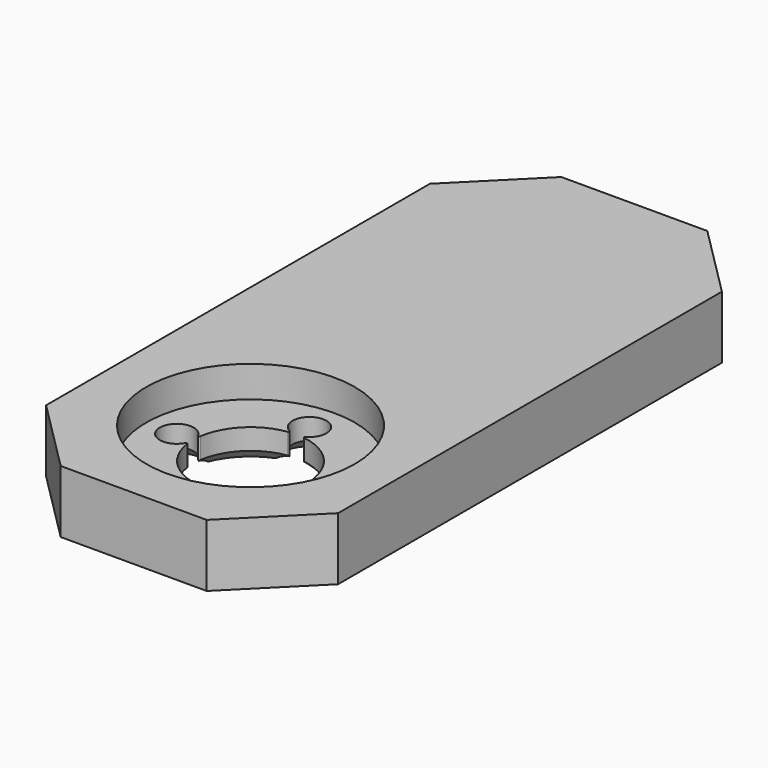
from build123d import *

# Parameters (mm, degrees)
F0_W     = 28
F0_H     = 60
F1_DEPTH = 6
F2_R     = 10
F3_DEPTH = 3
F5_DEPTH = 3.001
F6_SIZE  = 1
F7_SIZE  = 7
F8_R     = 0.1


with BuildPart() as f1:
    # F0 (on Top) → F1 (new body)
    with BuildSketch(Plane.XY):
        with Locations((0, 16)):
            Rectangle(F0_W, F0_H)
    extrude(amount=F1_DEPTH)

    # F2 (on face) → F3 (cut)
    with BuildSketch(Plane.XY.offset(6)):
        Circle(F2_R)
    extrude(amount=-F3_DEPTH, mode=Mode.SUBTRACT)

    # F4 (on face) → F5 (cut, through all)
    with BuildSketch(Plane.XY.offset(3)):
        with BuildLine():
            ThreePointArc((5.4878115346, -0.3659570474), (5.4969520391, -0.183079982), (5.5, 0))
            ThreePointArc((5.5, 0), (5.4969520391, 0.183079982), (5.4878115346, 0.3659570474))
            ThreePointArc((5.4878115346, 0.3659570474), (5.4460678119, 0), (5.4878115346, -0.3659570474))
        make_face()
        with BuildLine():
            ThreePointArc((5.4878115346, 0.3659570474), (5.4969520391, 0.183079982), (5.5, 0))
            ThreePointArc((5.5, 0), (5.4969520391, -0.183079982), (5.4878115346, -0.3659570474))
            ThreePointArc((5.4878115346, -0.3659570474), (7.2552328866, -1.614530342), (8.6960678119, 0))
            ThreePointArc((8.6960678119, 0), (7.2552328866, 1.614530342), (5.4878115346, 0.3659570474))
        make_face()
        with BuildLine():
            ThreePointArc((5.4878115346, -0.3659570474), (5.4460678119, 0), (5.4878115346, 0.3659570474))
            ThreePointArc((5.4878115346, 0.3659570474), (3.8890872965, 3.8890872965), (0.3659570474, 5.4878115346))
            ThreePointArc((0.3659570474, 5.4878115346), (0, 5.4460678119), (-0.3659570474, 5.4878115346))
            ThreePointArc((-0.3659570474, 5.4878115346), (-3.8890872965, 3.8890872965), (-5.4878115346, 0.3659570474))
            ThreePointArc((-5.4878115346, 0.3659570474), (-5.4565374699, 0.1841650747), (-5.4460678119, 0))
            ThreePointArc((-5.4460678119, 0), (-5.4565374699, -0.1841650747), (-5.4878115346, -0.3659570474))
            ThreePointArc((-5.4878115346, -0.3659570474), (-3.8890872965, -3.8890872965), (-0.3659570474, -5.4878115346))
            ThreePointArc((-0.3659570474, -5.4878115346), (0, -5.4460678119), (0.3659570474, -5.4878115346))
            ThreePointArc((0.3659570474, -5.4878115346), (3.8890872965, -3.8890872965), (5.4878115346, -0.3659570474))
        make_face()
        with BuildLine():
            ThreePointArc((-0.3659570474, 5.4878115346), (0, 5.4460678119), (0.3659570474, 5.4878115346))
            ThreePointArc((0.3659570474, 5.4878115346), (0, 5.5), (-0.3659570474, 5.4878115346))
        make_face()
        with BuildLine():
            ThreePointArc((-0.3659570474, 5.4878115346), (0, 5.5), (0.3659570474, 5.4878115346))
            ThreePointArc((0.3659570474, 5.4878115346), (1.2718697264, 6.0596468318), (1.625, 7.0710678119))
            ThreePointArc((1.625, 7.0710678119), (-1.0114209801, 8.3429375383), (-0.3659570474, 5.4878115346))
        make_face()
        with BuildLine():
            ThreePointArc((1.625, -7.0710678119), (1.2718697264, -6.0596468318), (0.3659570474, -5.4878115346))
            ThreePointArc((0.3659570474, -5.4878115346), (0, -5.5), (-0.3659570474, -5.4878115346))
            ThreePointArc((-0.3659570474, -5.4878115346), (-1.0114209801, -8.3429375383), (1.625, -7.0710678119))
        make_face()
        with BuildLine():
            ThreePointArc((-0.3659570474, -5.4878115346), (0, -5.5), (0.3659570474, -5.4878115346))
            ThreePointArc((0.3659570474, -5.4878115346), (0, -5.4460678119), (-0.3659570474, -5.4878115346))
        make_face()
        with BuildLine():
            ThreePointArc((-5.4460678119, 0), (-5.4565374699, 0.1841650747), (-5.4878115346, 0.3659570474))
            ThreePointArc((-5.4878115346, 0.3659570474), (-5.5, 0), (-5.4878115346, -0.3659570474))
            ThreePointArc((-5.4878115346, -0.3659570474), (-5.4565374699, -0.1841650747), (-5.4460678119, 0))
        make_face()
        with BuildLine():
            ThreePointArc((-5.4878115346, -0.3659570474), (-5.5, 0), (-5.4878115346, 0.3659570474))
            ThreePointArc((-5.4878115346, 0.3659570474), (-8.6960678119, 0), (-5.4878115346, -0.3659570474))
        make_face()
    extrude(amount=-F5_DEPTH, mode=Mode.SUBTRACT)

    # F6
    f6_edges = [f1.edges().sort_by_distance(p)[0] for p in [
        (3.889087, 3.889087, 0),
        (-3.889087, 3.889087, 0),
        (-3.889087, -3.889087, 0),
        (3.889087, -3.889087, 0),
        (0, -8.696068, 0),
        (8.696068, 0, 0),
        (-8.696068, 0, 0),
        (0, 8.696068, 0),
    ]]
    chamfer(f6_edges, length=F6_SIZE)

    # F7
    f7_edges = [f1.edges().sort_by_distance(p)[0] for p in [
        (14, -14, 3),
        (-14, -14, 3),
        (14, 46, 3),
        (-14, 46, 3),
    ]]
    chamfer(f7_edges, length=F7_SIZE)

    # F8
    f8_edges = [f1.edges().sort_by_distance(p)[0] for p in [
        (-0.365957, 5.487812, 2),
        (-5.487812, 0.365957, 2),
        (-5.487812, -0.365957, 2),
        (0.365957, 5.487812, 2),
        (5.487812, 0.365957, 2),
        (5.487812, -0.365957, 2),
        (-0.365957, -5.487812, 2),
        (0.365957, -5.487812, 2),
    ]]
    fillet(f8_edges, radius=F8_R)


solid = f1.part
